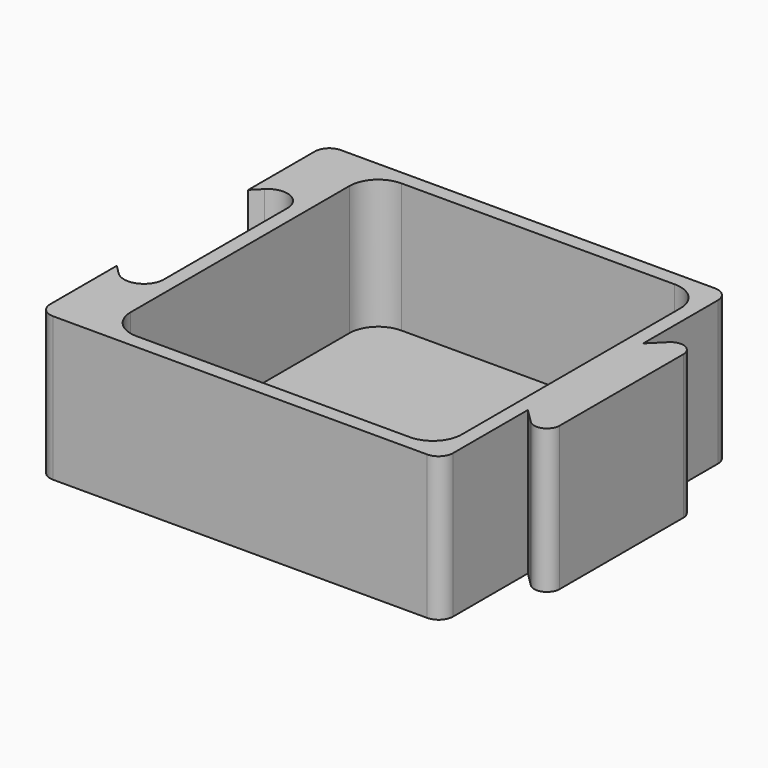
from build123d import *

# Parameters (mm, degrees)
F0_W     = 63.5
F0_H     = 63.5
F1_DEPTH = 25.4
F2_T     = -2.54
F4_DEPTH = 25.4
F5_R     = 5.08
F6_R     = 2.54


with BuildPart() as f1:
    # F0 (on Top) → F1 (new body)
    with BuildSketch(Plane.XY):
        with Locations((31.75, 31.75)):
            Rectangle(F0_W, F0_H)
    extrude(amount=F1_DEPTH)

    # F2
    f2_openings = [f1.faces().sort_by_distance(p)[0] for p in [
        (31.75, 31.75, 25.4),
    ]]
    offset(amount=F2_T, openings=f2_openings)

    # F3 (on face) → F4 (join, through all)
    with BuildSketch(Plane.XY.offset(25.4)):
        with BuildLine():
            Line((66.0174359697, 46.9674359697), (63.5, 44.45))
            Line((63.5, 44.45), (63.5, 19.05))
            Line((63.5, 19.05), (66.0174359697, 16.5325640303))
            ThreePointArc((66.0174359697, 16.5325640303), (68.4640847787, 16.0458953235), (69.85, 18.1200640303))
            Line((69.85, 18.1200640303), (69.85, 45.3799359697))
            ThreePointArc((69.85, 45.3799359697), (68.4640847787, 47.4541046765), (66.0174359697, 46.9674359697))
        make_face()
        with BuildLine():
            Line((0, 45.3799359697), (0, 63.5))
            Line((0, 63.5), (-7.62, 63.5))
            Line((-7.62, 63.5), (-7.62, 46.2460512242))
            Line((-7.62, 46.2460512242), (-6.0005896424, 47.8654615818))
            ThreePointArc((-6.0005896424, 47.8654615818), (-2.1699072622, 48.6274316828), (0, 45.3799359697))
        make_face()
        with BuildLine():
            Line((-6.0005896424, 15.6345384182), (-7.62, 17.2539487758))
            Line((-7.62, 17.2539487758), (-7.62, 0))
            Line((-7.62, 0), (0, 0))
            Line((0, 0), (0, 18.1200640303))
            ThreePointArc((0, 18.1200640303), (-2.1699072622, 14.8725683172), (-6.0005896424, 15.6345384182))
        make_face()
    extrude(amount=-F4_DEPTH)

    # F5
    f5_edges = [f1.edges().sort_by_distance(p)[0] for p in [
        (2.54, 60.96, 13.97),
        (60.96, 60.96, 13.97),
        (2.54, 2.54, 13.97),
        (60.96, 2.54, 13.97),
    ]]
    fillet(f5_edges, radius=F5_R)

    # F6
    f6_edges = [f1.edges().sort_by_distance(p)[0] for p in [
        (-7.62, 63.5, 12.7),
        (63.5, 63.5, 12.7),
        (63.5, 0, 12.7),
        (-7.62, 0, 12.7),
    ]]
    fillet(f6_edges, radius=F6_R)


solid = f1.part
